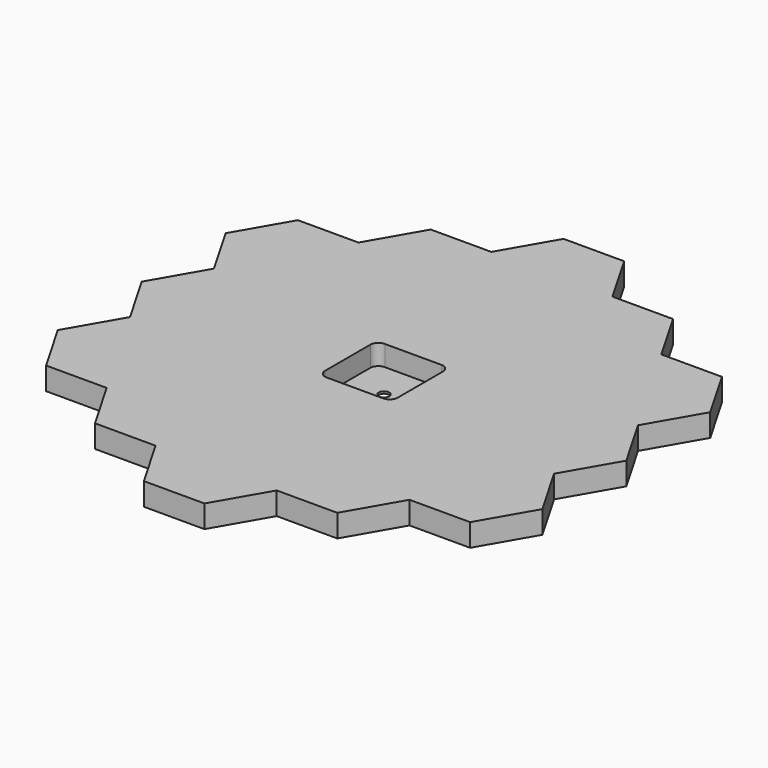
from build123d import *

# Parameters (mm, degrees)
F2_DEPTH = 17.78
F1_R     = 4.1275
F3_DEPTH = 1.7145


with BuildPart() as f2:
    # F1 (on Top) → F2 (new body)
    with BuildSketch(Plane.XY):
        Polygon((-271.632484, 50.297177), (-247.819984, 9.052717), (-271.632484, -32.191743), (-247.819984, -73.436203), (-200.194984, -73.436203), (-176.382484, -114.680663), (-128.757484, -114.680663), (-104.944984, -155.925123), (-57.319984, -155.925123), (-33.507484, -114.680663), (14.117516, -114.680663), (37.930016, -73.436203), (85.555016, -73.436203), (109.367516, -32.191743), (85.555016, 9.052717), (109.367516, 50.297177), (85.555016, 91.541636), (109.367516, 132.786096), (85.555016, 174.030556), (37.930016, 174.030556), (14.117516, 215.275016), (-33.507484, 215.275016), (-57.319984, 256.519476), (-104.944984, 256.519476), (-128.757484, 215.275016), (-176.382484, 215.275016), (-200.194984, 174.030556), (-247.819984, 174.030556), (-271.632484, 132.786096), (-247.819984, 91.541636), align=None)
        with BuildLine():
            ThreePointArc((-109.707484, 72.522177), (-107.847612, 77.012305), (-103.357484, 78.872177))
            Line((-103.357484, 78.872177), (-58.907484, 78.872177))
            ThreePointArc((-58.907484, 78.872177), (-54.417356, 77.012305), (-52.557484, 72.522177))
            Line((-52.557484, 72.522177), (-52.557484, 28.072177))
            ThreePointArc((-52.557484, 28.072177), (-54.417356, 23.582049), (-58.907484, 21.722177))
            Line((-58.907484, 21.722177), (-103.357484, 21.722177))
            ThreePointArc((-103.357484, 21.722177), (-107.847612, 23.582049), (-109.707484, 28.072177))
            Line((-109.707484, 28.072177), (-109.707484, 72.522177))
        make_face(mode=Mode.SUBTRACT)
    extrude(amount=F2_DEPTH)

    # F1 (on Top) → F3 (join)
    with BuildSketch(Plane.XY):
        with BuildLine():
            Line((-58.907484, 78.872177), (-103.357484, 78.872177))
            ThreePointArc((-103.357484, 78.872177), (-107.847612, 77.012305), (-109.707484, 72.522177))
            Line((-109.707484, 72.522177), (-109.707484, 28.072177))
            ThreePointArc((-109.707484, 28.072177), (-107.847612, 23.582049), (-103.357484, 21.722177))
            Line((-103.357484, 21.722177), (-58.907484, 21.722177))
            ThreePointArc((-58.907484, 21.722177), (-54.417356, 23.582049), (-52.557484, 28.072177))
            Line((-52.557484, 28.072177), (-52.557484, 72.522177))
            ThreePointArc((-52.557484, 72.522177), (-54.417356, 77.012305), (-58.907484, 78.872177))
        make_face()
        with Locations((-81.132484, 50.297177)):
            Circle(F1_R, mode=Mode.SUBTRACT)
    extrude(amount=F3_DEPTH)


solid = f2.part
